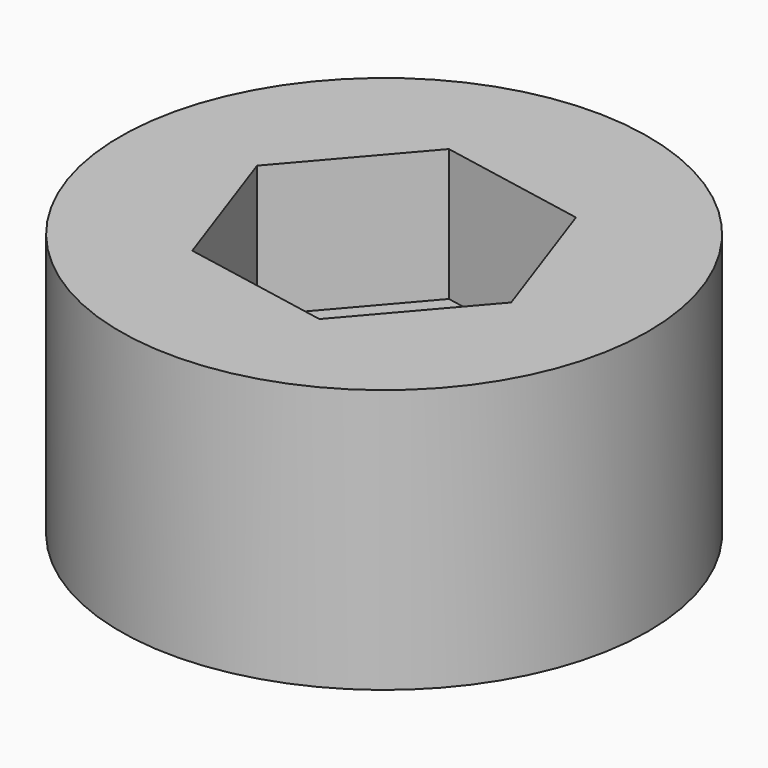
from build123d import *

# Parameters (mm, degrees)
F0_R     = 50
F1_DEPTH = 50
F3_DEPTH = 25


with BuildPart() as f1:
    # F0 (on Top) → F1 (new body)
    with BuildSketch(Plane.XY):
        with Locations((0, -4.985444)):
            Circle(F0_R)
    extrude(amount=F1_DEPTH)

    # F2 (on face) → F3 (cut)
    with BuildSketch(Plane.XY.offset(50)):
        Polygon((-9.531355, 22.263164), (-28.363664, 0.384465), (-18.832309, -26.864143), (9.531355, -32.234051), (28.363664, -10.355352), (18.832309, 16.893255), align=None)
    extrude(amount=-F3_DEPTH, mode=Mode.SUBTRACT)


solid = f1.part
